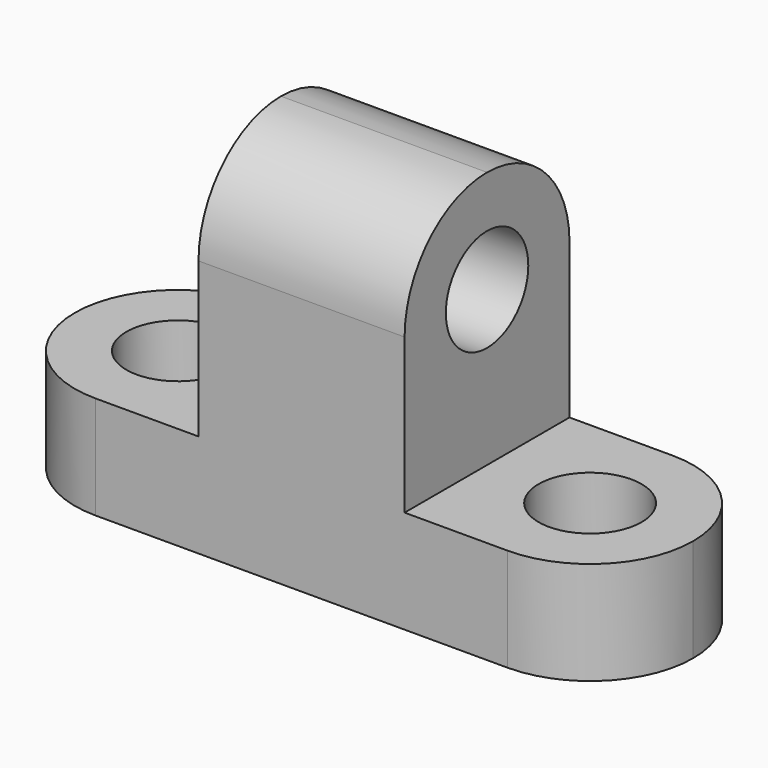
from build123d import *

# Parameters (mm, degrees)
F1_DEPTH  = 25.4
F3_DEPTH  = 12.701
F5_DEPTH  = 12.701
F7_DEPTH  = 50.801
F8_R      = 6.35
F9_DEPTH  = 50.801
F10_R     = 6.35
F11_DEPTH = 12.701
F12_R     = 6.35
F13_DEPTH = 12.701


with BuildPart() as f1:
    # F0 (on Front) → F1 (new body)
    with BuildSketch(Plane.XZ):
        Polygon((-51.074865, 33.086794), (-51.074865, 20.386794), (25.125135, 20.386794), (25.125135, 33.086794), (-0.274865, 33.086794), (-0.274865, 64.836794), (-25.674865, 64.836794), (-25.674865, 33.086794), align=None)
    extrude(amount=F1_DEPTH)

    # F2 (on face) → F3 (cut, through all)
    with BuildSketch(Plane.XY.offset(33.086794)):
        with BuildLine():
            ThreePointArc((-51.074865, -12.7), (-47.355121, -3.719744), (-38.374865, 0))
            Line((-38.374865, 0), (-51.074865, 0))
            Line((-51.074865, 0), (-51.074865, -12.7))
        make_face()
        with BuildLine():
            ThreePointArc((-38.374865, -25.4), (-47.355121, -21.680256), (-51.074865, -12.7))
            Line((-51.074865, -12.7), (-51.074865, -25.4))
            Line((-51.074865, -25.4), (-38.374865, -25.4))
        make_face()
    extrude(amount=-F3_DEPTH, mode=Mode.SUBTRACT)

    # F4 (on face) → F5 (cut, through all)
    with BuildSketch(Plane.XY.offset(33.086794)):
        with BuildLine():
            ThreePointArc((12.425135, 0), (21.405391, -3.719744), (25.125135, -12.7))
            Line((25.125135, -12.7), (25.125135, 0))
            Line((25.125135, 0), (12.425135, 0))
        make_face()
        with BuildLine():
            ThreePointArc((25.125135, -12.7), (21.405391, -21.680256), (12.425135, -25.4))
            Line((12.425135, -25.4), (25.125135, -25.4))
            Line((25.125135, -25.4), (25.125135, -12.7))
        make_face()
    extrude(amount=-F5_DEPTH, mode=Mode.SUBTRACT)

    # F6 (on face) → F7 (cut, through all)
    with BuildSketch(Plane.YZ.offset(-0.274865)):
        with BuildLine():
            ThreePointArc((-25.4, 52.136794), (-21.680256, 61.11705), (-12.7, 64.836794))
            Line((-12.7, 64.836794), (-25.4, 64.836794))
            Line((-25.4, 64.836794), (-25.4, 52.136794))
        make_face()
        with BuildLine():
            ThreePointArc((-12.7, 64.836794), (-3.719744, 61.11705), (0, 52.136794))
            Line((0, 52.136794), (0, 64.836794))
            Line((0, 64.836794), (-12.7, 64.836794))
        make_face()
    extrude(amount=-F7_DEPTH, mode=Mode.SUBTRACT)

    # F8 (on face) → F9 (cut, through all)
    with BuildSketch(Plane.YZ.offset(-0.274865)):
        with Locations((-12.7, 52.136794)):
            Circle(F8_R)
    extrude(amount=-F9_DEPTH, mode=Mode.SUBTRACT)

    # F10 (on face) → F11 (cut, through all)
    with BuildSketch(Plane.XY.offset(33.086794)):
        with Locations((-38.374865, -12.7)):
            Circle(F10_R)
    extrude(amount=-F11_DEPTH, mode=Mode.SUBTRACT)

    # F12 (on face) → F13 (cut, through all)
    with BuildSketch(Plane.XY.offset(33.086794)):
        with Locations((12.425135, -12.7)):
            Circle(F12_R)
    extrude(amount=-F13_DEPTH, mode=Mode.SUBTRACT)


solid = f1.part
